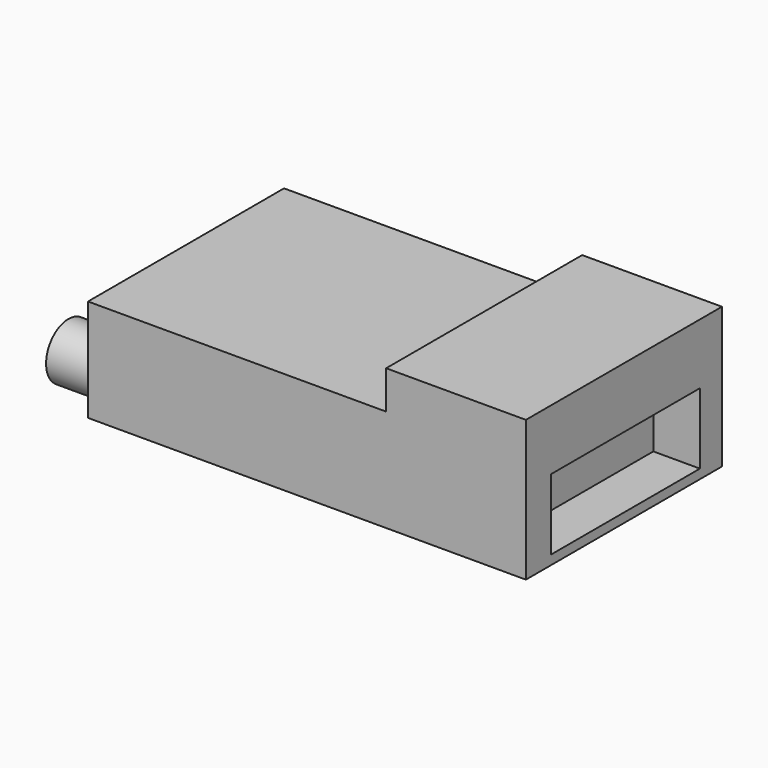
from build123d import *

# Parameters (mm, degrees)
BOX002_W          = 5
BOX002_H          = 20
BOX002_DEPTH      = 7.6
BOX001_W          = 15
BOX001_H          = 26.3
BOX001_DEPTH      = 15.1
CYLINDER_R        = 3
CYLINDER_DEPTH    = 5.3
CYLINDER001_R     = 3
CYLINDER001_DEPTH = 5.3
BOX_W             = 47
BOX_H             = 26.3
BOX_DEPTH         = 11


with BuildPart() as plugs:
    # Box002 → Box002 (new body)
    with BuildSketch(Plane(origin=(42, 3.35, 1), x_dir=(1, 0, 0), z_dir=(0, 0, 1))):
        with Locations((2.5, 10)):
            Rectangle(BOX002_W, BOX002_H)
    extrude(amount=BOX002_DEPTH)


with BuildPart() as cube001:
    # Box001 → Box001 (new body)
    with BuildSketch(Plane(origin=(32, 0, 0), x_dir=(1, 0, 0), z_dir=(0, 0, 1))):
        with Locations((7.5, 13.15)):
            Rectangle(BOX001_W, BOX001_H)
    extrude(amount=BOX001_DEPTH)


with BuildPart() as cylinder:
    # Cylinder → Cylinder (new body)
    with BuildSketch(Plane(origin=(0, 4, 3), x_dir=(0, 0, 1), z_dir=(-1, 0, 0))):
        Circle(CYLINDER_R)
    extrude(amount=CYLINDER_DEPTH)


with BuildPart() as cylinder001:
    # Cylinder001 → Cylinder001 (new body)
    with BuildSketch(Plane(origin=(0, 22, 3), x_dir=(0, 0, 1), z_dir=(-1, 0, 0))):
        Circle(CYLINDER001_R)
    extrude(amount=CYLINDER001_DEPTH)


with BuildPart() as receiver_model:
    # Box → Box (new body)
    with BuildSketch(Plane.XY):
        with Locations((23.5, 13.15)):
            Rectangle(BOX_W, BOX_H)
    extrude(amount=BOX_DEPTH)

    # Fusion: union Cube001, Cylinder, Cylinder001
    add(cube001.part)
    add(cylinder.part)
    add(cylinder001.part)

    # Cut: cut Plugs
    add(plugs.part, mode=Mode.SUBTRACT)


solid = receiver_model.part
